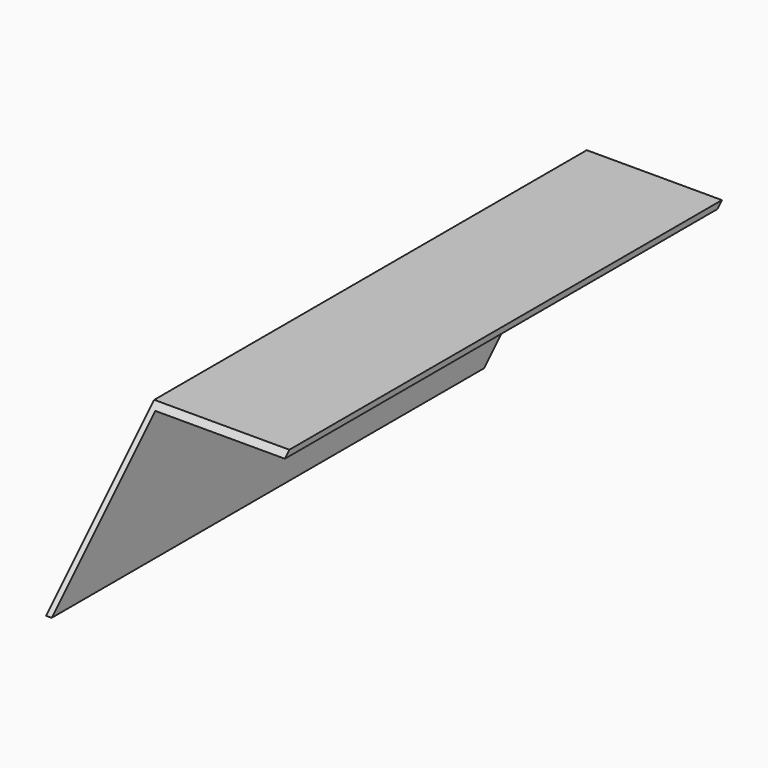
from build123d import *

# Parameters (mm, degrees)
F1_DEPTH = 300
F3_DEPTH = 60.001
F5_DEPTH = 60.001


with BuildPart() as f1:
    # F0 (on Front) → F1 (new body)
    with BuildSketch(Plane.XZ):
        Polygon((60, 0), (0, 0), (0, -60), (2.5, -60), (2.5, -2.5), (60, -2.5), align=None)
    extrude(amount=F1_DEPTH)

    # F2 (on face) → F3 (cut, through all)
    with BuildSketch(Plane(origin=(0, 0, 0), x_dir=(0, -1, 0), z_dir=(-1, 0, 0))):
        Polygon((0, 0), (0, -60), (60, -60), align=None)
    extrude(amount=-F3_DEPTH, mode=Mode.SUBTRACT)

    # F4 (on face) → F5 (cut, through all)
    with BuildSketch(Plane(origin=(0, 0, 0), x_dir=(0, -1, 0), z_dir=(-1, 0, 0))):
        Polygon((240, 0), (300, -60), (300, 0), align=None)
    extrude(amount=-F5_DEPTH, mode=Mode.SUBTRACT)


solid = f1.part
